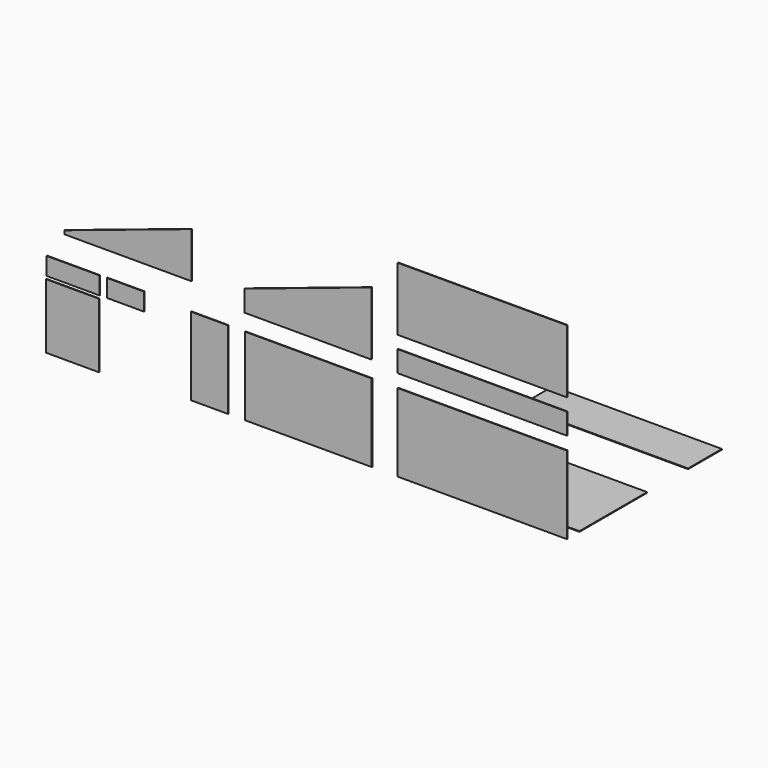
from build123d import *

# Parameters (mm, degrees)
F0_W      = 2438.4
F0_H      = 1123.95
F1_DEPTH  = 9.525
F2_W      = 2438.4
F2_H      = 304.8
F3_DEPTH  = 9.525
F4_W      = 2438.4
F4_H      = 914.4
F5_DEPTH  = 9.525
F6_W      = 1828.8
F6_H      = 1123.95
F7_DEPTH  = 9.525
F9_DEPTH  = 9.525
F10_W     = 2438.4
F10_H     = 1219.2
F11_DEPTH = 9.525
F12_W     = 2438.4
F12_H     = 609.6
F13_DEPTH = 9.525
F14_W     = 533.4
F14_H     = 1123.95
F15_DEPTH = 9.525
F17_DEPTH = 9.525
F18_W     = 533.4
F18_H     = 254
F19_DEPTH = 9.525
F20_W     = 762
F20_H     = 254
F21_DEPTH = 9.525
F22_W     = 762
F22_H     = 933.45
F23_DEPTH = 9.525


with BuildPart() as f1:
    # F0 (on Front) → F1 (new body)
    with BuildSketch(Plane.XZ):
        with Locations((1219.2, 561.975)):
            Rectangle(F0_W, F0_H)
    extrude(amount=F1_DEPTH)


with BuildPart() as f3:
    # F2 (on Front) → F3 (new body)
    with BuildSketch(Plane.XZ):
        with Locations((1219.2, 1465.13278)):
            Rectangle(F2_W, F2_H)
    extrude(amount=F3_DEPTH)


with BuildPart() as f5:
    # F4 (on Front) → F5 (new body)
    with BuildSketch(Plane.XZ):
        with Locations((1219.2, 2256.913849)):
            Rectangle(F4_W, F4_H)
    extrude(amount=F5_DEPTH)


with BuildPart() as f7:
    # F6 (on Front) → F7 (new body)
    with BuildSketch(Plane.XZ):
        with Locations((-1289.222927, 561.975)):
            Rectangle(F6_W, F6_H)
    extrude(amount=F7_DEPTH)


with BuildPart() as f9:
    # F8 (on Front) → F9 (new body)
    with BuildSketch(Plane.XZ):
        Polygon((-2210.249582, 1362.569125), (-381.449582, 1362.569125), (-381.449582, 2276.969125), (-2210.249582, 1667.369125), align=None)
    extrude(amount=F9_DEPTH)


with BuildPart() as f11:
    # F10 (on Top) → F11 (new body)
    with BuildSketch(Plane.XY):
        with Locations((1219.2, 826.523817)):
            Rectangle(F10_W, F10_H)
    extrude(amount=F11_DEPTH)


with BuildPart() as f13:
    # F12 (on Top) → F13 (new body)
    with BuildSketch(Plane.XY):
        with Locations((1219.2, 2479.06493)):
            Rectangle(F12_W, F12_H)
    extrude(amount=F13_DEPTH)


with BuildPart() as f15:
    # F14 (on Front) → F15 (new body)
    with BuildSketch(Plane.XZ):
        with Locations((-2714.101266, 561.975)):
            Rectangle(F14_W, F14_H)
    extrude(amount=F15_DEPTH)


with BuildPart() as f17:
    # F16 (on Front) → F17 (new body)
    with BuildSketch(Plane.XZ):
        Polygon((-4804.39535, 1512.935416), (-2975.59535, 1512.935416), (-2975.59535, 2173.335416), (-4804.39535, 1563.735416), align=None)
    extrude(amount=F17_DEPTH)


with BuildPart() as f19:
    # F18 (on Front) → F19 (new body)
    with BuildSketch(Plane.XZ):
        with Locations((-3925.7375, 1031.749729)):
            Rectangle(F18_W, F18_H)
    extrude(amount=F19_DEPTH)


with BuildPart() as f21:
    # F20 (on Front) → F21 (new body)
    with BuildSketch(Plane.XZ):
        with Locations((-4679.965734, 1028.37293)):
            Rectangle(F20_W, F20_H)
    extrude(amount=F21_DEPTH)


with BuildPart() as f23:
    # F22 (on Front) → F23 (new body)
    with BuildSketch(Plane.XZ):
        with Locations((-4687.950373, 390.803728)):
            Rectangle(F22_W, F22_H)
    extrude(amount=F23_DEPTH)


solid = Compound([f1.part, f3.part, f5.part, f7.part, f9.part, f11.part, f13.part, f15.part, f17.part, f19.part, f21.part, f23.part])
